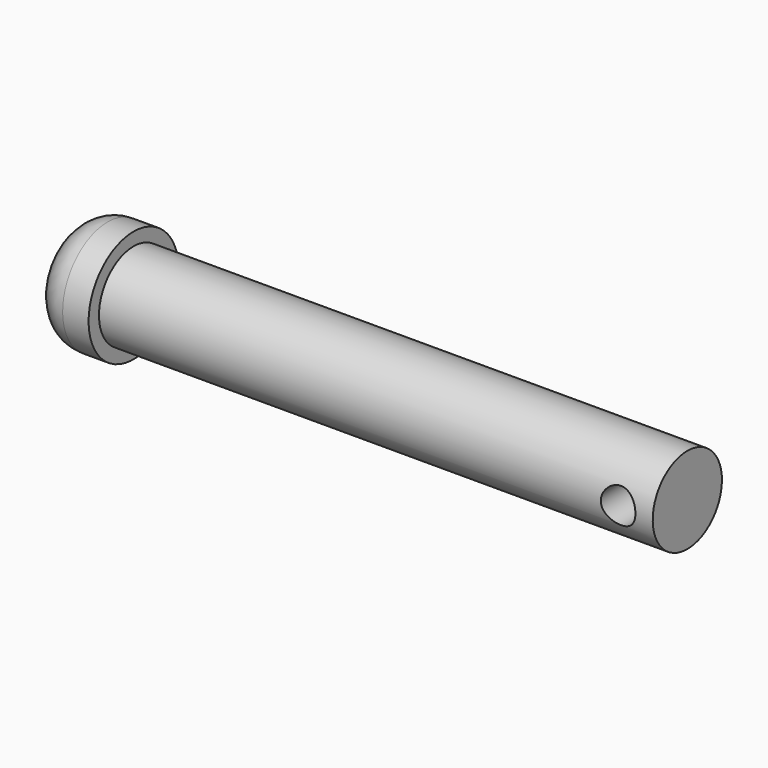
from build123d import *

# Parameters (mm, degrees)
F2_R     = 3.175
F3_DEPTH = 12.7


with BuildPart() as f1:
    # F0 (on Front) → F1 (revolve)
    with BuildSketch(Plane.XZ):
        with BuildLine():
            ThreePointArc((6.35, 10.31875), (1.8598719395, 8.4588780605), (0, 3.96875))
            Line((0, 3.96875), (0, 0))
            Line((0, 0), (112.7125, 0))
            Line((112.7125, 0), (112.7125, 7.9375))
            Line((112.7125, 7.9375), (11.1125, 7.9375))
            Line((11.1125, 7.9375), (11.1125, 10.31875))
            Line((11.1125, 10.31875), (6.35, 10.31875))
        make_face()
    revolve(axis=Axis((35.5366091529, 0, 0), (1, 0, 0)))

    # F2 (on Front) → F3 (cut, symmetric)
    with BuildSketch(Plane.XZ):
        with Locations((106.3625, 0)):
            Circle(F2_R)
    extrude(amount=F3_DEPTH, both=True, mode=Mode.SUBTRACT)


solid = f1.part
